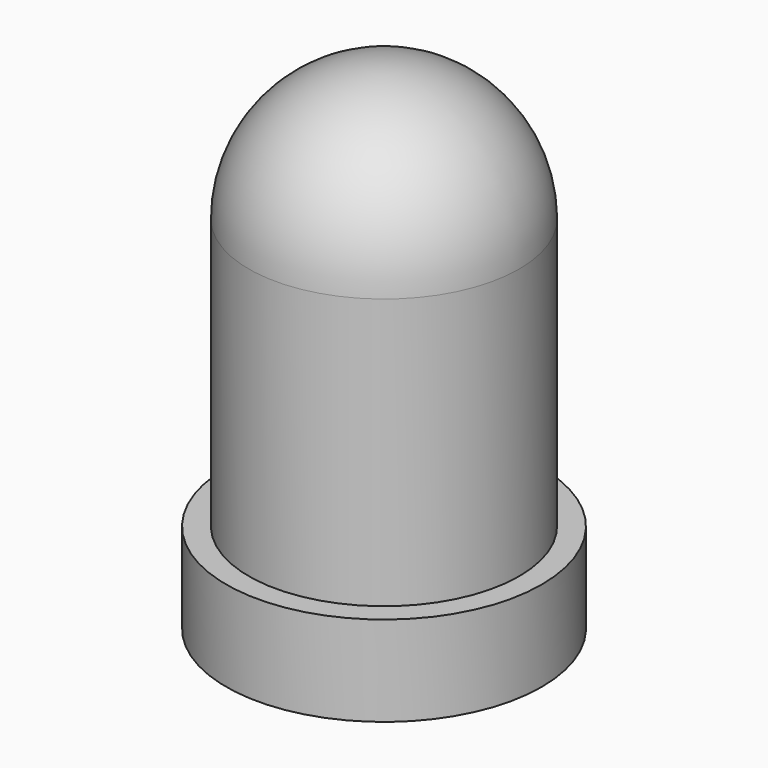
from build123d import *

# Parameters (mm, degrees)
CYLINDER001_R     = 1.75
CYLINDER001_DEPTH = 1
CYLINDER_R        = 1.5
CYLINDER_DEPTH    = 4


with BuildPart() as led_base:
    # Cylinder001 → Cylinder001 (new body)
    with BuildSketch(Plane.XY):
        Circle(CYLINDER001_R)
    extrude(amount=CYLINDER001_DEPTH)


with BuildPart() as led_body:
    # Cylinder → Cylinder (new body)
    with BuildSketch(Plane.XY):
        Circle(CYLINDER_R)
    extrude(amount=CYLINDER_DEPTH)


with BuildPart() as led:
    # Sphere → Sphere (revolve)
    with BuildSketch(Plane(origin=(0, 0, 4), x_dir=(1, 0, 0), z_dir=(0, -1, 0))):
        with BuildLine():
            ThreePointArc((0, -1.5), (1.5, 0), (0, 1.5))
            Line((0, 1.5), (0, -1.5))
        make_face()
    revolve(axis=Axis((0, 0, 4), (0, 0, 1)))

    # Fusion: union LED_Base, LED_Body
    add(led_base.part)
    add(led_body.part)


solid = led.part
